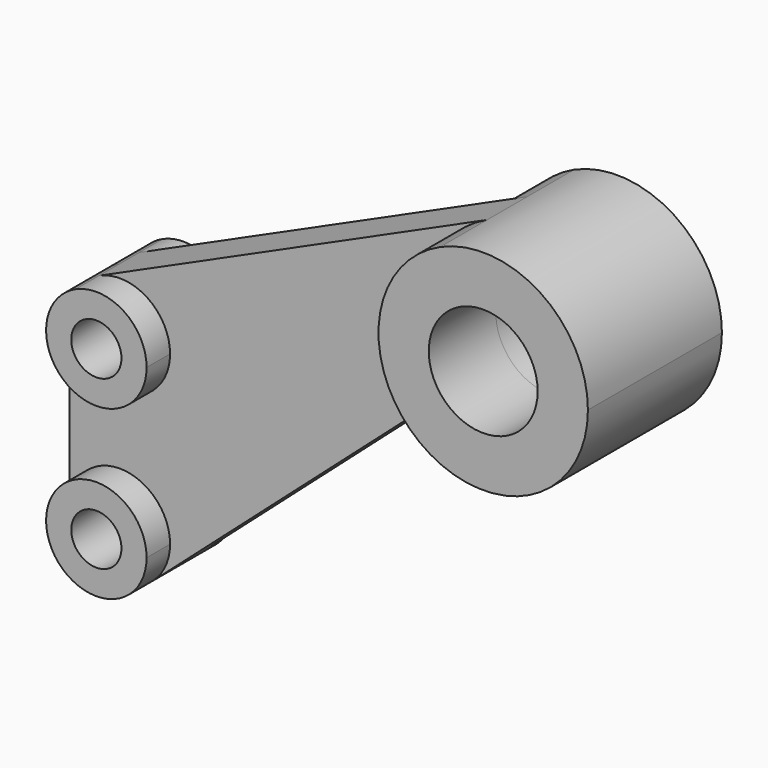
from build123d import *

# Parameters (mm, degrees)
F1_DEPTH = 5.9944
F0_R     = 5.9944
F2_DEPTH = 13.0048
F0_R_2   = 13.0048
F3_DEPTH = 20.0025


with BuildPart() as f1:
    # F0 (on Front) → F1 (new body)
    with BuildSketch(Plane.XZ):
        with BuildLine():
            ThreePointArc((-12.0015, 0), (0, 12.0015), (12.0015, 0))
            ThreePointArc((12.0015, 0), (10.942664, -4.928905), (7.952988, -8.988102))
            Line((7.952988, -8.988102), (71.316989, 47.078591))
            ThreePointArc((71.316989, 47.078591), (78.103737, 50.03276), (85.331821, 48.438437))
            ThreePointArc((85.331821, 48.438437), (73.022425, 71.33485), (87.698507, 92.791308))
            Line((87.698507, 92.791308), (-4.940825, 50.942287))
            ThreePointArc((-4.940825, 50.942287), (6.509174, 50.087989), (12.0015, 40.005))
            ThreePointArc((12.0015, 40.005), (0, 28.0035), (-12.0015, 40.005))
            Line((-12.0015, 40.005), (-12.0015, 0))
        make_face()
    extrude(amount=F1_DEPTH)

    # F0 (on Front) → F2 (join)
    with BuildSketch(Plane.XZ):
        with BuildLine():
            ThreePointArc((-4.940825, 50.942287), (-10.082989, 46.514174), (-12.0015, 40.005))
            ThreePointArc((-12.0015, 40.005), (0, 28.0035), (12.0015, 40.005))
            ThreePointArc((12.0015, 40.005), (6.509174, 50.087989), (-4.940825, 50.942287))
        make_face()
        with Locations((0, 40.005)):
            Circle(F0_R, mode=Mode.SUBTRACT)
        with BuildLine():
            ThreePointArc((7.952988, -8.988102), (10.942664, -4.928905), (12.0015, 0))
            ThreePointArc((12.0015, 0), (0, 12.0015), (-12.0015, 0))
            ThreePointArc((-12.0015, 0), (-4.928905, -10.942664), (7.952988, -8.988102))
        make_face()
        Circle(F0_R, mode=Mode.SUBTRACT)
    extrude(amount=F2_DEPTH)

    # F0 (on Front) → F3 (join)
    with BuildSketch(Plane.XZ):
        with BuildLine():
            ThreePointArc((87.698507, 92.791308), (73.022425, 71.33485), (85.331821, 48.438437))
            ThreePointArc((85.331821, 48.438437), (110.416984, 48.30068), (122.9995, 70.0024))
            ThreePointArc((122.9995, 70.0024), (111.555701, 91.011294), (87.698507, 92.791308))
        make_face()
        with Locations((97.9932, 70.0024)):
            Circle(F0_R_2, mode=Mode.SUBTRACT)
    extrude(amount=F3_DEPTH)

    # F4: F1 across plane


with BuildPart() as f1_1:
    add(f1.part)
    add(f1.part.mirror(Plane.XZ))


solid = f1_1.part
